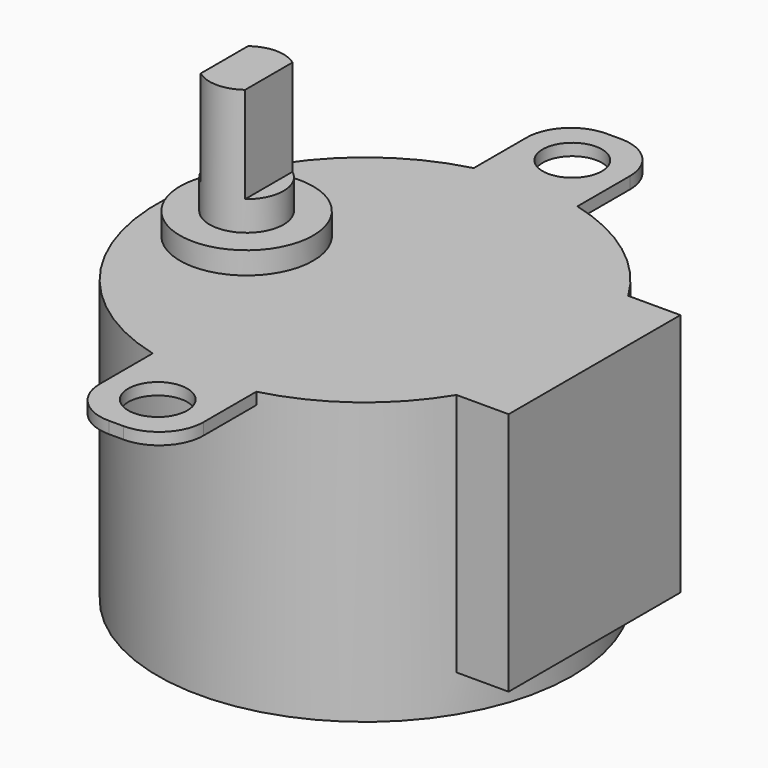
from build123d import *

# Parameters (mm, degrees)
CYLINDER002_R     = 2
CYLINDER002_DEPTH = 20
CYLINDER001_R     = 2
CYLINDER001_DEPTH = 20
CYLINDER004_R     = 4.5
CYLINDER004_DEPTH = 19.5
BOX001_W          = 7
BOX001_H          = 42
BOX001_DEPTH      = 0.8
FILLET_R          = 3
FILLET001_R       = 3
FILLET002_R       = 3
FILLET003_R       = 3
BOX_W             = 10
BOX_H             = 14.5
BOX_DEPTH         = 16.5
CYLINDER_R        = 14
CYLINDER_DEPTH    = 19
BOX002_W          = 10
BOX002_H          = 10
BOX002_DEPTH      = 10
BOX003_W          = 10
BOX003_H          = 10
BOX003_DEPTH      = 10
CYLINDER003_R     = 2.5
CYLINDER003_DEPTH = 28


with BuildPart() as cylinder002:
    # Cylinder002 → Cylinder002 (new body)
    with BuildSketch(Plane(origin=(0, -17.5, 14), x_dir=(1, 0, 0), z_dir=(0, 0, 1))):
        Circle(CYLINDER002_R)
    extrude(amount=CYLINDER002_DEPTH)


with BuildPart() as cylinder001:
    # Cylinder001 → Cylinder001 (new body)
    with BuildSketch(Plane(origin=(0, 17.5, 14), x_dir=(1, 0, 0), z_dir=(0, 0, 1))):
        Circle(CYLINDER001_R)
    extrude(amount=CYLINDER001_DEPTH)


with BuildPart() as shaft_boss:
    # Cylinder004 → Cylinder004 (new body)
    with BuildSketch(Plane(origin=(-8, 0, 1), x_dir=(1, 0, 0), z_dir=(0, 0, 1))):
        Circle(CYLINDER004_R)
    extrude(amount=CYLINDER004_DEPTH)


with BuildPart() as fillet003:
    # Box001 → Box001 (new body)
    with BuildSketch(Plane(origin=(-3.5, -21, 18.2), x_dir=(1, 0, 0), z_dir=(0, 0, 1))):
        with Locations((3.5, 21)):
            Rectangle(BOX001_W, BOX001_H)
    extrude(amount=BOX001_DEPTH)

    # Fillet
    fillet_edges = [fillet003.edges().sort_by_distance(p)[0] for p in [
        (3.5, -21, 18.6),
    ]]
    fillet(fillet_edges, radius=FILLET_R)

    # Fillet001
    fillet001_edges = [fillet003.edges().sort_by_distance(p)[0] for p in [
        (-3.5, -21, 18.6),
    ]]
    fillet(fillet001_edges, radius=FILLET001_R)

    # Fillet002
    fillet002_edges = [fillet003.edges().sort_by_distance(p)[0] for p in [
        (-3.5, 21, 18.6),
    ]]
    fillet(fillet002_edges, radius=FILLET002_R)

    # Fillet003
    fillet003_edges = [fillet003.edges().sort_by_distance(p)[0] for p in [
        (3.5, 21, 18.6),
    ]]
    fillet(fillet003_edges, radius=FILLET003_R)


with BuildPart() as cube:
    # Box → Box (new body)
    with BuildSketch(Plane(origin=(5.5, -7.25, 2.5), x_dir=(1, 0, 0), z_dir=(0, 0, 1))):
        with Locations((5, 7.25)):
            Rectangle(BOX_W, BOX_H)
    extrude(amount=BOX_DEPTH)


with BuildPart() as motor_body:
    # Cylinder → Cylinder (new body)
    with BuildSketch(Plane.XY):
        Circle(CYLINDER_R)
    extrude(amount=CYLINDER_DEPTH)

    # Fusion: union Cube
    add(cube.part)

    # Fusion001: union Fillet003
    add(fillet003.part)

    # Fusion002: union shaft-boss
    add(shaft_boss.part)

    # Cut002: cut Cylinder001
    add(cylinder001.part, mode=Mode.SUBTRACT)

    # Cut003: cut Cylinder002
    add(cylinder002.part, mode=Mode.SUBTRACT)


with BuildPart() as cube002:
    # Box002 → Box002 (new body)
    with BuildSketch(Plane(origin=(-6.5, -5, 22.5), x_dir=(1, 0, 0), z_dir=(0, 0, 1))):
        with Locations((5, 5)):
            Rectangle(BOX002_W, BOX002_H)
    extrude(amount=BOX002_DEPTH)


with BuildPart() as cube003:
    # Box003 → Box003 (new body)
    with BuildSketch(Plane(origin=(-19.5, -5, 22.5), x_dir=(1, 0, 0), z_dir=(0, 0, 1))):
        with Locations((5, 5)):
            Rectangle(BOX003_W, BOX003_H)
    extrude(amount=BOX003_DEPTH)


with BuildPart() as obj1:
    # Cylinder003 → Cylinder003 (new body)
    with BuildSketch(Plane(origin=(-8, 0, 1), x_dir=(1, 0, 0), z_dir=(0, 0, 1))):
        Circle(CYLINDER003_R)
    extrude(amount=CYLINDER003_DEPTH)

    # Cut: cut Cube003
    add(cube003.part, mode=Mode.SUBTRACT)

    # Cut001: cut Cube002
    add(cube002.part, mode=Mode.SUBTRACT)

    # Fusion003: union motor-body
    add(motor_body.part)


with BuildPart() as obj1_1:
    # Fusion003 placement: moved
    add(obj1.part.moved(Location((7.9, 7, 7))))


solid = obj1_1.part
